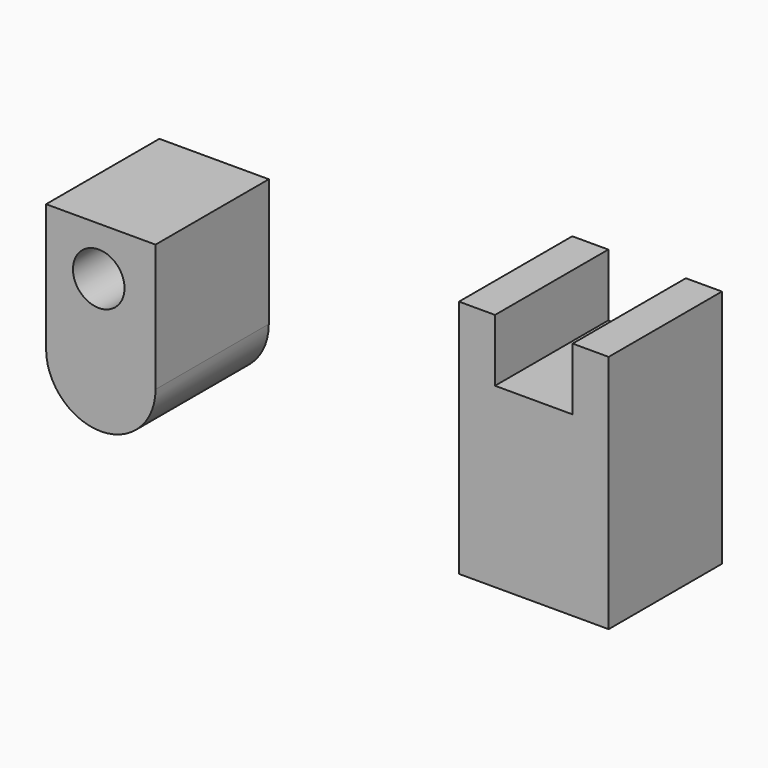
from build123d import *

# Parameters (mm, degrees)
F0_R     = 5.461548
F1_DEPTH = 30


with BuildPart() as f1:
    # F0 (on Front) → F1 (new body)
    with BuildSketch(Plane.XZ):
        with BuildLine():
            Line((-36.261413, 43.454971), (-59.456971, 43.454971))
            Line((-59.456971, 43.454971), (-59.456971, 16.442422))
            ThreePointArc((-59.456971, 16.442422), (-47.859192, 4.844643), (-36.261413, 16.442422))
            Line((-36.261413, 16.442422), (-36.261413, 43.454971))
        make_face()
        with Locations((-48.299614, 33.17846)):
            Circle(F0_R, mode=Mode.SUBTRACT)
        Polygon((28.0402, 32.884844), (28.0402, 2.936147), (59.75059, 2.936147), (59.75059, 32.884844), (59.75059, 40.518828), (59.75059, 53.731486), (52.116606, 53.731486), (52.116606, 40.518828), (35.674185, 40.518828), (35.674185, 53.731486), (28.0402, 53.731486), (28.0402, 40.518828), align=None)
    extrude(amount=F1_DEPTH)


solid = f1.part
